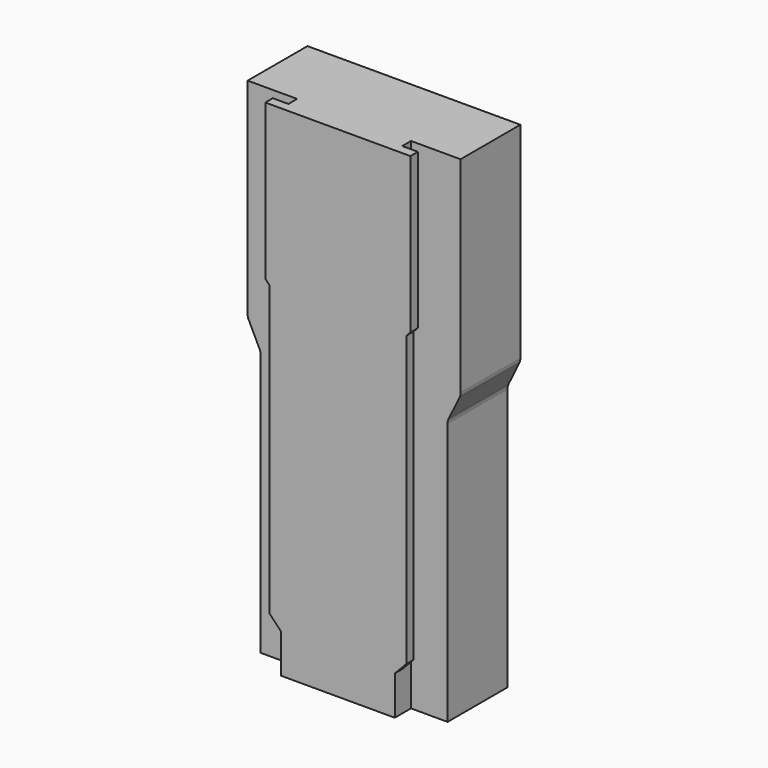
from build123d import *

# Parameters (mm, degrees)
SKETCH044_W     = 27.4
SKETCH044_H     = 120.2182
PAD016_DEPTH    = 4.8768
SKETCH043_W     = 34.9
SKETCH043_H     = 120.2182
PAD017_DEPTH    = 2.24
SKETCH046_W     = 54.9
SKETCH046_H     = 140.2182
POCKET026_DEPTH = 4.8778
PAD018_DEPTH    = 18


with BuildPart() as part:
    # Sketch044 → Pad016 (new body)
    with BuildSketch(Plane.XZ):
        with Locations((0, 60.1091)):
            Rectangle(SKETCH044_W, SKETCH044_H)
    extrude(amount=PAD016_DEPTH)

    # Sketch043 → Pad017 (new body)
    with BuildSketch(Plane.XZ.offset(4.8768)):
        with Locations((0, 60.1091)):
            Rectangle(SKETCH043_W, SKETCH043_H)
    extrude(amount=-PAD017_DEPTH)

    # Sketch046 → Pocket026 (cut, through all)
    with BuildSketch(Plane.XZ):
        with Locations((0, 60.1091)):
            Rectangle(SKETCH046_W, SKETCH046_H)
        Polygon((-13.7, 0), (13.7, 0), (13.7, 9.398), (16.464, 12.2936), (16.464, 81.8388), (17.45, 82.859833), (17.45, 120.2182), (-17.45, 120.2182), (-17.45, 82.859833), (-16.464, 81.8388), (-16.464, 12.2936), (-13.7, 9.398), align=None, mode=Mode.SUBTRACT)
    extrude(amount=POCKET026_DEPTH, mode=Mode.SUBTRACT)

    # Sketch047 → Pad018 (new body)
    with BuildSketch(Plane.XZ):
        with BuildLine():
            Line((-22.5044, 0), (22.5044, 0))
            Line((22.5044, 0), (22.5044, 63.215202))
            ThreePointArc((22.75823, 64.3128), (22.568684, 63.778485), (22.5044, 63.215202))
            Line((25.36207, 69.641402), (22.75823, 64.3128))
            ThreePointArc((25.36207, 69.641402), (25.551616, 70.175717), (25.6159, 70.739))
            Line((25.6159, 120.2182), (25.6159, 70.739))
            Line((-25.6159, 120.2182), (25.6159, 120.2182))
            Line((-25.6159, 70.739), (-25.6159, 120.2182))
            ThreePointArc((-25.6159, 70.739), (-25.551616, 70.175717), (-25.36207, 69.641402))
            Line((-25.36207, 69.641402), (-22.75823, 64.3128))
            ThreePointArc((-22.5044, 63.215202), (-22.568684, 63.778485), (-22.75823, 64.3128))
            Line((-22.5044, 63.215202), (-22.5044, 0))
        make_face()
    extrude(amount=-PAD018_DEPTH)


solid = part.part
